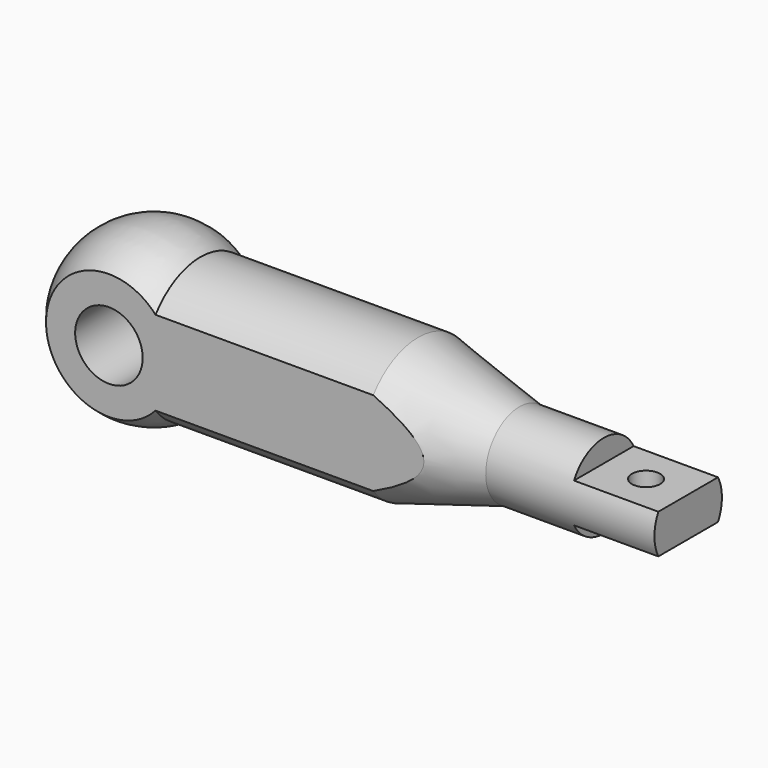
from build123d import *

# Parameters (mm, degrees)
F3_DEPTH = 15
F4_R     = 2.5
F5_DEPTH = 25
F7_DEPTH = 130
F8_R     = 6
F9_DEPTH = 50


with BuildPart() as f1:
    # F0 (on Front) → F1 (revolve)
    with BuildSketch(Plane.XZ):
        with BuildLine():
            Line((33.459454, 12.5), (-5.248984, 12.5))
            ThreePointArc((-5.248984, 12.5), (-20.633732, 13.21691), (-28.540546, 0))
            Line((-28.540546, 0), (81.459454, 0))
            Line((81.459454, 0), (81.459454, 7.5))
            Line((81.459454, 7.5), (51.459454, 7.5))
            Line((51.459454, 7.5), (33.459454, 12.5))
        make_face()
    revolve(axis=Axis((12.445287, 0, 0), (1, 0, 0)))

    # F2 (on face) → F3 (cut)
    with BuildSketch(Plane.YZ.offset(81.459454)):
        with BuildLine():
            Line((9.444949, -3.5), (-9.444949, -3.5))
            ThreePointArc((-9.444949, -3.5), (0, -10.072589), (9.444949, -3.5))
        make_face()
        with BuildLine():
            ThreePointArc((9.444949, 3.5), (0, 10.072589), (-9.444949, 3.5))
            Line((-9.444949, 3.5), (9.444949, 3.5))
        make_face()
    extrude(amount=-F3_DEPTH, mode=Mode.SUBTRACT)

    # F4 (on face) → F5 (cut)
    with BuildSketch(Plane.XY.offset(3.5)):
        with Locations((73.959454, 0)):
            Circle(F4_R)
    extrude(amount=-F5_DEPTH, mode=Mode.SUBTRACT)

    # F6 (on face) → F7 (cut)
    with BuildSketch(Plane.YZ.offset(81.459454)):
        with BuildLine():
            Line((-10, -11.18034), (-10, 11.18034))
            ThreePointArc((-10, 11.18034), (-15, 0), (-10, -11.18034))
        make_face()
        with BuildLine():
            ThreePointArc((10, -11.18034), (15, 0), (10, 11.18034))
            Line((10, 11.18034), (10, 6.902583))
            Line((10, 6.902583), (10, 0))
            Line((10, 0), (10, -11.18034))
        make_face()
    extrude(amount=-F7_DEPTH, mode=Mode.SUBTRACT)

    # F8 (on face) → F9 (cut)
    with BuildSketch(Plane.XZ.offset(10)):
        with Locations((-13.540546, 0)):
            Circle(F8_R)
    extrude(amount=-F9_DEPTH, mode=Mode.SUBTRACT)


solid = f1.part
